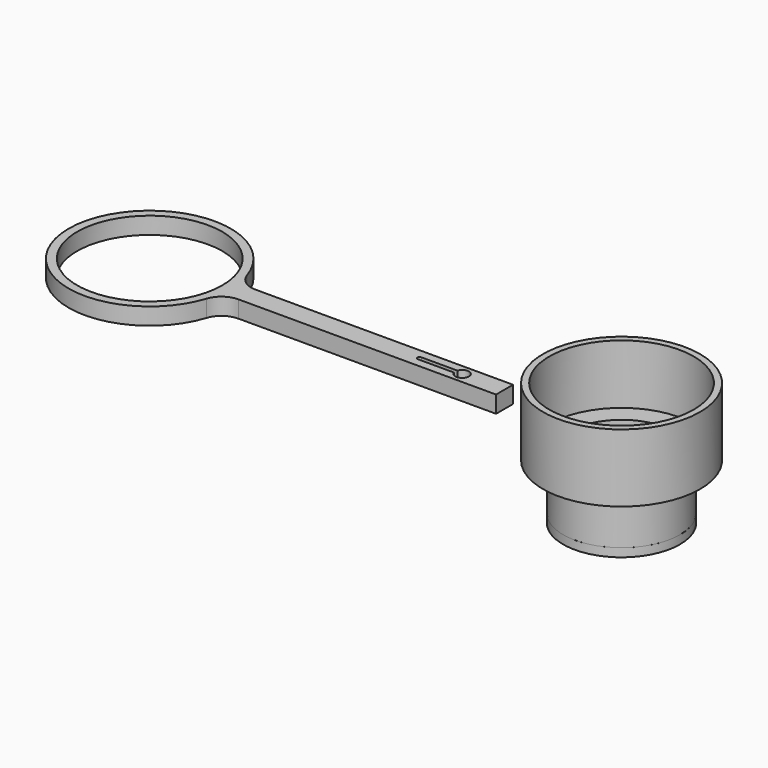
from build123d import *

# Parameters (mm, degrees)
F0_R      = 18.5
F0_R_2    = 17
F1_DEPTH  = 16
F0_R_3    = 13.75
F0_R_4    = 12.25
F2_DEPTH  = 13
F3_DEPTH  = 2
F4_R      = 13.7587018694
F5_DEPTH  = 2
F6_DEPTH  = 2
F7_R      = 1.5
F8_DEPTH  = 4.2
F9_R      = 2.5
F9_R_2    = 1.5
F10_DEPTH = 1
F11_R     = 17.1
F12_DEPTH = 4
F13_R     = 5


with BuildPart() as f1:
    # F0 (on Top) → F1 (new body)
    with BuildSketch(Plane.XY):
        Circle(F0_R)
        Circle(F0_R_2, mode=Mode.SUBTRACT)
    extrude(amount=F1_DEPTH)



with BuildPart() as f2:
    # F0 (on Top) → F2 (new body)
    with BuildSketch(Plane.XY):
        Circle(F0_R_3)
        Circle(F0_R_4, mode=Mode.SUBTRACT)
    extrude(amount=-F2_DEPTH)


with BuildPart() as f1_1:
    add(f1.part)

    add(f2.part)  # F3 merges F2
    # F0 (on Top) → F3 (join)
    with BuildSketch(Plane.XY):
        Circle(F0_R_2)
        Circle(F0_R_3, mode=Mode.SUBTRACT)
    extrude(amount=F3_DEPTH)

    # F4 (on face) → F5 (join)
    with BuildSketch(Plane(origin=(0, 0, -13), x_dir=(1, 0, 0), z_dir=(0, 0, -1))):
        Circle(F4_R)
    extrude(amount=-F5_DEPTH)

    # F0 (on Top) → F6 (join)
    with BuildSketch(Plane.XY):
        Circle(F0_R_3)
        Circle(F0_R_4, mode=Mode.SUBTRACT)
    extrude(amount=F6_DEPTH)

    # F7 (on face) → F8 (join)
    with BuildSketch(Plane(origin=(0, 0, -13), x_dir=(1, 0, 0), z_dir=(0, 0, -1))):
        Circle(F7_R)
    extrude(amount=F8_DEPTH)

    # F9 (on face) → F10 (join, symmetric)
    with BuildSketch(Plane(origin=(0, 0, -17.2), x_dir=(1, 0, 0), z_dir=(0, 0, -1))):
        Circle(F9_R)
        Circle(F9_R_2, mode=Mode.SUBTRACT)
        Circle(F9_R_2)
    extrude(amount=F10_DEPTH, both=True)


with BuildPart() as f12:
    # F11 (on Top) → F12 (new body)
    with BuildSketch(Plane.XY):
        with BuildLine():
            ThreePointArc((-94.2287065711, 5), (-132.2643871768, 2.5), (-94.2287065711, 0))
            Line((-94.2287065711, 0), (-94.5643871768, 0))
            Line((-94.5643871768, 0), (-94.5643871768, 5))
            Line((-94.5643871768, 5), (-94.2287065711, 5))
        make_face()
        with Locations((-113.1643871768, 2.5)):
            Circle(F11_R, mode=Mode.SUBTRACT)
        with BuildLine():
            Line((-94.2287065711, 0), (-29.5643871768, 0))
            Line((-29.5643871768, 0), (-29.5643871768, 5))
            Line((-29.5643871768, 5), (-94.2287065711, 5))
            ThreePointArc((-94.2287065711, 5), (-94.1055112974, 3.7526971764), (-94.0643871768, 2.5))
            ThreePointArc((-94.0643871768, 2.5), (-94.1055112974, 1.2473028236), (-94.2287065711, 0))
        make_face()
        with BuildLine():
            ThreePointArc((-41.0842555921, 3), (-39.3111969958, 4.0798400971), (-37.9643871768, 2.5))
            ThreePointArc((-37.9643871768, 2.5), (-39.3111969958, 0.9201599029), (-41.0842555921, 2))
            Line((-41.0842555921, 2), (-49.5643871768, 2))
            ThreePointArc((-49.5643871768, 2), (-50.0643871768, 2.5), (-49.5643871768, 3))
            Line((-49.5643871768, 3), (-41.0842555921, 3))
        make_face(mode=Mode.SUBTRACT)
        with BuildLine():
            Line((-94.5643871768, 0), (-94.2287065711, 0))
            ThreePointArc((-94.2287065711, 0), (-94.1055112974, 1.2473028236), (-94.0643871768, 2.5))
            ThreePointArc((-94.0643871768, 2.5), (-94.1055112974, 3.7526971764), (-94.2287065711, 5))
            Line((-94.2287065711, 5), (-94.5643871768, 5))
            Line((-94.5643871768, 5), (-94.5643871768, 0))
        make_face()
    extrude(amount=F12_DEPTH)

    # F13
    f13_edges = [f12.edges().sort_by_distance(p)[0] for p in [
        (-94.228707, 5, 2),
        (-94.228707, 0, 2),
    ]]
    fillet(f13_edges, radius=F13_R)


solid = Compound([f1_1.part, f12.part])
